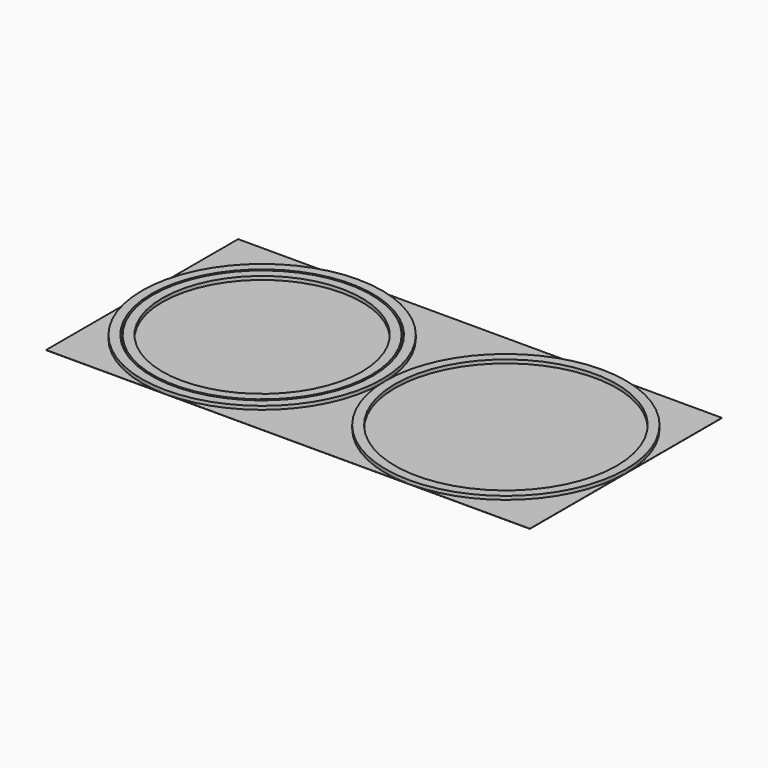
from build123d import *

# Parameters (mm, degrees)
F1_DEPTH = 20
F2_DEPTH = 20
F3_DEPTH = 1


with BuildPart() as f1:
    # F0 (on Top) → F1 (new body)
    with BuildSketch(Plane.XY):
        with BuildLine():
            ThreePointArc((-1310, 0), (-1119.6194077713, -459.6194077713), (-660, -650))
            ThreePointArc((-660, -650), (-200.3805922287, -459.6194077713), (-10, 0))
            Line((-10, 0), (-60, 0))
            ThreePointArc((-60, 0), (-660, -600), (-1260, 0))
            Line((-1260, 0), (-1310, 0))
        make_face()
        with BuildLine():
            ThreePointArc((-660, 650), (-1119.6194077713, 459.6194077713), (-1310, 0))
            Line((-1310, 0), (-1260, 0))
            ThreePointArc((-1260, 0), (-660, 600), (-60, 0))
            Line((-60, 0), (-10, 0))
            ThreePointArc((-10, 0), (-200.3805922287, 459.6194077713), (-660, 650))
        make_face()
    extrude(amount=F1_DEPTH)


with BuildPart() as f1b:
    # F0 (on Top) → F1, piece 2 (new body)
    with BuildSketch(Plane.XY):
        with BuildLine():
            ThreePointArc((10, 0), (200.3805922288, -459.6194077713), (660, -650))
            ThreePointArc((660, -650), (1119.6194077713, -459.6194077712), (1310, 0))
            ThreePointArc((1310, 0), (1119.6194077713, 459.6194077713), (660, 650))
            ThreePointArc((660, 650), (200.3805922287, 459.6194077713), (10, 0))
        make_face()
        with BuildLine():
            ThreePointArc((1260, 0), (660, -600), (60, 0))
            ThreePointArc((60, 0), (660, 600), (1260, 0))
        make_face(mode=Mode.SUBTRACT)
    extrude(amount=F1_DEPTH)


with BuildPart() as f2:
    # F0 (on Top) → F2 (new body)
    with BuildSketch(Plane.XY):
        with BuildLine():
            ThreePointArc((-70, 0), (-660, 590), (-1250, 0))
            Line((-1250, 0), (-1200, 0))
            ThreePointArc((-1200, 0), (-660, 540), (-120, 0))
            Line((-120, 0), (-70, 0))
        make_face()
        with BuildLine():
            Line((-1200, 0), (-1250, 0))
            ThreePointArc((-1250, 0), (-660, -590), (-70, 0))
            Line((-70, 0), (-120, 0))
            ThreePointArc((-120, 0), (-660, -540), (-1200, 0))
        make_face()
    extrude(amount=F2_DEPTH)


with BuildPart() as f3:
    # F0 (on Top) → F3 (new body)
    with BuildSketch(Plane.XY):
        with BuildLine():
            Line((-1310, 650), (-1310, 0))
            ThreePointArc((-1310, 0), (-1119.6194077713, 459.6194077713), (-660, 650))
            Line((-660, 650), (-1310, 650))
        make_face()
    extrude(amount=F3_DEPTH)


with BuildPart() as f3b:
    # F0 (on Top) → F3, piece 2 (new body)
    with BuildSketch(Plane.XY):
        with BuildLine():
            Line((-10, 0), (10, 0))
            ThreePointArc((10, 0), (200.3805922287, 459.6194077713), (660, 650))
            Line((660, 650), (-660, 650))
            ThreePointArc((-660, 650), (-200.3805922287, 459.6194077713), (-10, 0))
        make_face()
        with BuildLine():
            Line((-660, -650), (660, -650))
            ThreePointArc((660, -650), (200.3805922288, -459.6194077713), (10, 0))
            Line((10, 0), (-10, 0))
            ThreePointArc((-10, 0), (-200.3805922287, -459.6194077713), (-660, -650))
        make_face()
    extrude(amount=F3_DEPTH)


with BuildPart() as f3c:
    # F0 (on Top) → F3, piece 3 (new body)
    with BuildSketch(Plane.XY):
        with BuildLine():
            Line((-1310, -650), (-660, -650))
            ThreePointArc((-660, -650), (-1119.6194077713, -459.6194077713), (-1310, 0))
            Line((-1310, 0), (-1310, -650))
        make_face()
    extrude(amount=F3_DEPTH)


with BuildPart() as f3d:
    # F0 (on Top) → F3, piece 4 (new body)
    with BuildSketch(Plane.XY):
        with BuildLine():
            Line((660, -650), (1310, -650))
            Line((1310, -650), (1310, 0))
            ThreePointArc((1310, 0), (1119.6194077713, -459.6194077712), (660, -650))
        make_face()
    extrude(amount=F3_DEPTH)


with BuildPart() as f3e:
    # F0 (on Top) → F3, piece 5 (new body)
    with BuildSketch(Plane.XY):
        with BuildLine():
            ThreePointArc((660, 650), (1119.6194077713, 459.6194077713), (1310, 0))
            Line((1310, 0), (1310, 650))
            Line((1310, 650), (660, 650))
        make_face()
    extrude(amount=F3_DEPTH)


with BuildPart() as f3f:
    # F0 (on Top) → F3, piece 6 (new body)
    with BuildSketch(Plane.XY):
        with BuildLine():
            ThreePointArc((-120, 0), (-660, 540), (-1200, 0))
            Line((-1200, 0), (-660, 0))
            Line((-660, 0), (-120, 0))
        make_face()
        with BuildLine():
            Line((-660, 0), (-1200, 0))
            ThreePointArc((-1200, 0), (-660, -540), (-120, 0))
            Line((-120, 0), (-660, 0))
        make_face()
    extrude(amount=F3_DEPTH)


with BuildPart() as f3g:
    # F0 (on Top) → F3, piece 7 (new body)
    with BuildSketch(Plane.XY):
        with BuildLine():
            ThreePointArc((1260, 0), (660, 600), (60, 0))
            ThreePointArc((60, 0), (660, -600), (1260, 0))
        make_face()
    extrude(amount=F3_DEPTH)


solid = Compound([f1.part, f1b.part, f2.part, f3.part, f3b.part, f3c.part, f3d.part, f3e.part, f3f.part, f3g.part])
